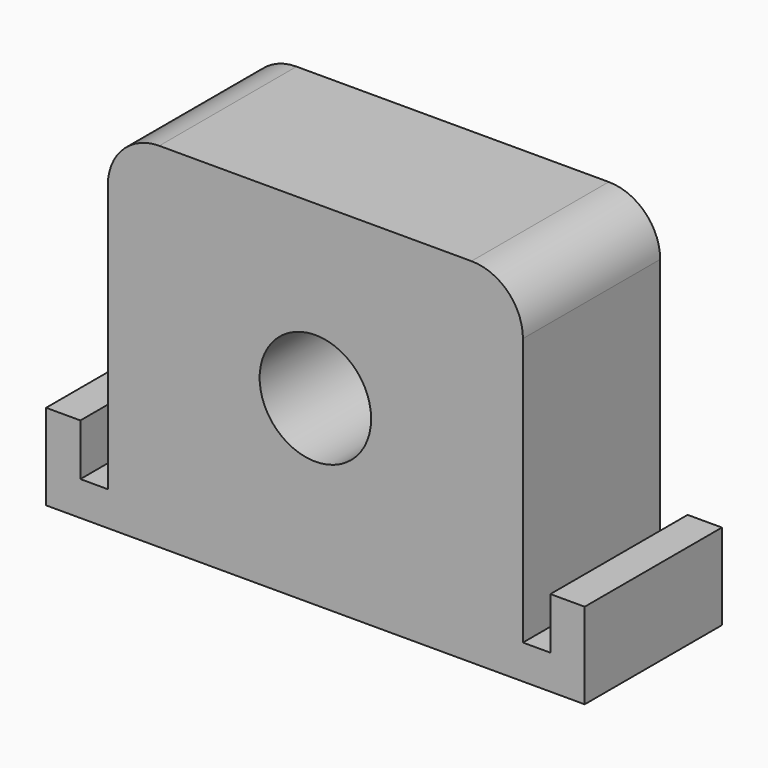
from build123d import *

# Parameters (mm, degrees)
F0_R     = 3.25
F1_DEPTH = 10


with BuildPart() as f1:
    # F0 (on Front) → F1 (new body)
    with BuildSketch(Plane.XZ):
        with BuildLine():
            Line((-13.7, -9.5), (-13.7, -6.540226))
            Line((-13.7, -6.540226), (-15.7, -6.540226))
            Line((-15.7, -6.540226), (-15.7, -11.55))
            Line((-15.7, -11.55), (15.7, -11.55))
            Line((15.7, -11.55), (15.7, -6.540226))
            Line((15.7, -6.540226), (13.7, -6.540226))
            Line((13.7, -6.540226), (13.7, -9.5))
            Line((13.7, -9.5), (13.7, -9.55))
            Line((13.7, -9.55), (12.1, -9.55))
            Line((12.1, -9.55), (12.1, -9.5))
            Line((12.1, -9.5), (12.1, 6.05))
            ThreePointArc((12.1, 6.05), (11.22132, 8.17132), (9.1, 9.05))
            Line((9.1, 9.05), (-9.1, 9.05))
            ThreePointArc((-9.1, 9.05), (-11.22132, 8.17132), (-12.1, 6.05))
            Line((-12.1, 6.05), (-12.1, -9.5))
            Line((-12.1, -9.5), (-12.1, -9.55))
            Line((-12.1, -9.55), (-13.7, -9.55))
            Line((-13.7, -9.55), (-13.7, -9.5))
        make_face()
        with Locations((0, -0.95)):
            Circle(F0_R, mode=Mode.SUBTRACT)
    extrude(amount=F1_DEPTH)


solid = f1.part
